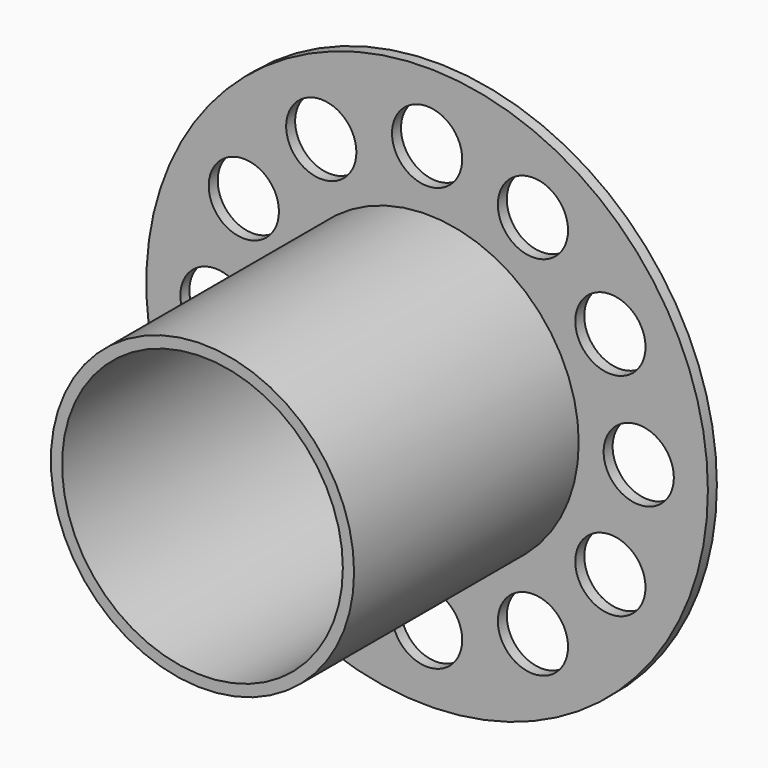
from build123d import *

# Parameters (mm, degrees)
F0_R     = 100
F0_R_2   = 12.5
F0_R_3   = 50
F1_DEPTH = 4
F2_R     = 54
F2_R_2   = 50
F3_DEPTH = 100


with BuildPart() as f1:
    # F0 (on Front) → F1 (new body)
    with BuildSketch(Plane.XZ):
        Circle(F0_R)
        with Locations((-37.684567, -65.271585)):
            Circle(F0_R_2, mode=Mode.SUBTRACT)
        with Locations((-65.271585, -37.684567)):
            Circle(F0_R_2, mode=Mode.SUBTRACT)
        with Locations((0, -75.369135)):
            Circle(F0_R_2, mode=Mode.SUBTRACT)
        with Locations((37.684567, -65.271585)):
            Circle(F0_R_2, mode=Mode.SUBTRACT)
        with Locations((65.271585, -37.684567)):
            Circle(F0_R_2, mode=Mode.SUBTRACT)
        with Locations((-75.369135, 0)):
            Circle(F0_R_2, mode=Mode.SUBTRACT)
        with Locations((-65.271585, 37.684567)):
            Circle(F0_R_2, mode=Mode.SUBTRACT)
        with Locations((-37.684567, 65.271585)):
            Circle(F0_R_2, mode=Mode.SUBTRACT)
        Circle(F0_R_3, mode=Mode.SUBTRACT)
        with Locations((75.369135, 0)):
            Circle(F0_R_2, mode=Mode.SUBTRACT)
        with Locations((65.271585, 37.684567)):
            Circle(F0_R_2, mode=Mode.SUBTRACT)
        with Locations((37.684567, 65.271585)):
            Circle(F0_R_2, mode=Mode.SUBTRACT)
        with Locations((0, 75.369135)):
            Circle(F0_R_2, mode=Mode.SUBTRACT)
    extrude(amount=F1_DEPTH)

    # F2 (on face) → F3 (join)
    with BuildSketch(Plane.XZ.offset(4)):
        Circle(F2_R)
        Circle(F2_R_2, mode=Mode.SUBTRACT)
    extrude(amount=F3_DEPTH)


solid = f1.part
